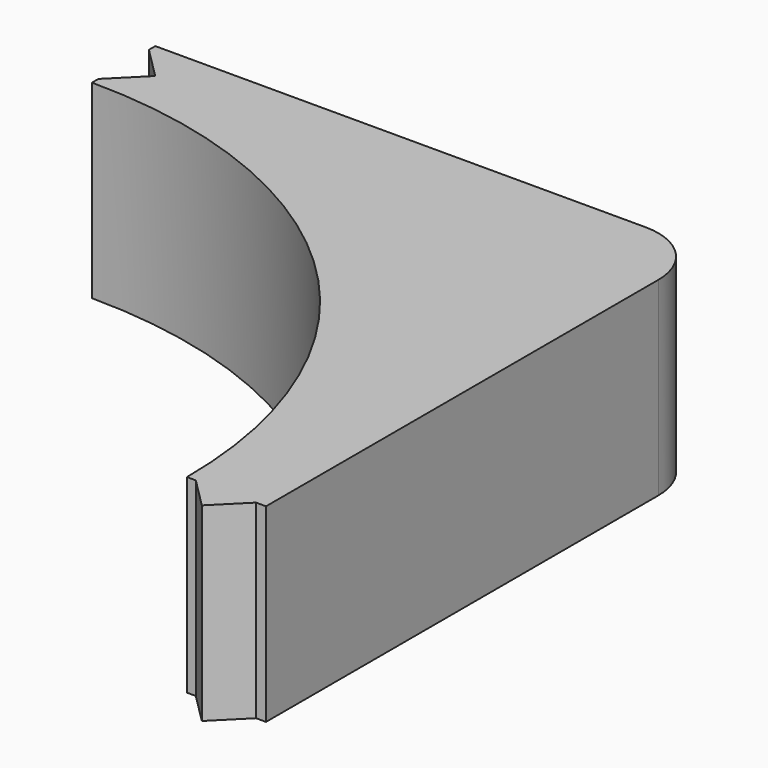
from build123d import *

# Parameters (mm, degrees)
F0_R     = 15
F1_DEPTH = 6
F3_DEPTH = 25
F6_DEPTH = 6
F9_DEPTH = 6


with BuildPart() as f1:
    # F0 (on Top) → F1 (new body)
    with BuildSketch(Plane.XY):
        with BuildLine():
            Line((15.5, 17.5), (-15.5, 17.5))
            ThreePointArc((-15.5, 17.5), (-16.914214, 16.914214), (-17.5, 15.5))
            Line((-17.5, 15.5), (-17.5, -15.5))
            ThreePointArc((-17.5, -15.5), (-16.914214, -16.914214), (-15.5, -17.5))
            Line((-15.5, -17.5), (15.5, -17.5))
            ThreePointArc((15.5, -17.5), (16.914214, -16.914214), (17.5, -15.5))
            Line((17.5, -15.5), (17.5, 15.5))
            ThreePointArc((17.5, 15.5), (16.914214, 16.914214), (15.5, 17.5))
        make_face()
        Circle(F0_R, mode=Mode.SUBTRACT)
    extrude(amount=F1_DEPTH)

    # F2 (on face) → F3 (cut)
    with BuildSketch(Plane.XY.offset(6)):
        Polygon((0, 0), (0, 17.5), (-17.5, 17.5), (-17.5, -17.5), (17.5, -17.5), (17.5, 0), align=None)
    extrude(amount=-F3_DEPTH, mode=Mode.SUBTRACT)

    # F5 (on face) → F6 (join)
    with BuildSketch(Plane.XY.offset(6)):
        Polygon((15.281152, 0), (16.232645, -0.951493), (17.184138, 0), align=None)
    extrude(amount=-F6_DEPTH)

    # F8 (on face) → F9 (cut)
    with BuildSketch(Plane.XY.offset(6)):
        Polygon((0, 15.252789), (0.997535, 16.250324), (0, 17.247858), align=None)
    extrude(amount=-F9_DEPTH, mode=Mode.SUBTRACT)


solid = f1.part
